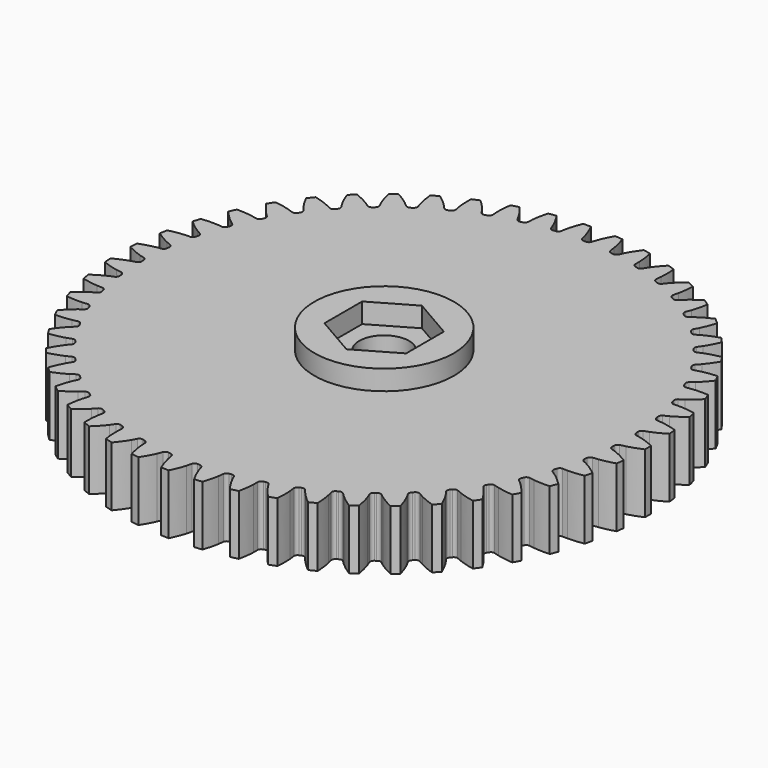
from build123d import *

# Parameters (mm, degrees)
PAD_DEPTH       = 6
SKETCH_R        = 7
PAD001_DEPTH    = 8
SKETCH001_R     = 2.5
POCKET_DEPTH    = 8.001
POCKET001_DEPTH = 2


with BuildPart() as part:
    # InvoluteGear → Pad (new body)
    with BuildSketch(Plane.XY):
        with BuildLine():
            add(Edge.make_bspline(
                [(24.477809, -1.042539), (24.623171, -1.01798), (24.796938, -0.982154), (24.997721, -0.930036)],
                knots=[0, 0, 0, 0, 1, 1, 1, 1], degree=3))
            add(Edge.make_bspline(
                [(24.997721, -0.930036), (25.39788, -0.826117), (25.903105, -0.658218), (26.497465, -0.388172)],
                knots=[0, 0, 0, 0, 1, 1, 1, 1], degree=3))
            ThreePointArc((26.497465, -0.388172), (26.500308, 0), (26.497465, 0.388172))
            add(Edge.make_bspline(
                [(26.497465, 0.388172), (25.903105, 0.658218), (25.39788, 0.826117), (24.997721, 0.930036)],
                knots=[0, 0, 0, 0, 1, 1, 1, 1], degree=3))
            add(Edge.make_bspline(
                [(24.997721, 0.930036), (24.796938, 0.982154), (24.623171, 1.01798), (24.477829, 1.042534)],
                knots=[0, 0, 0, 0, 1, 1, 1, 1], degree=3))
            ThreePointArc((24.477829, 1.042534), (24.284389, 1.177202), (24.209514, 1.400693))
            ThreePointArc((24.209514, 1.400693), (24.204006, 1.492852), (24.198147, 1.584989))
            ThreePointArc((24.198147, 1.584989), (24.244984, 1.815979), (24.420395, 1.973399))
            add(Edge.make_bspline(
                [(24.420395, 1.973399), (24.561638, 2.015635), (24.729685, 2.072543), (24.922541, 2.148941)],
                knots=[0, 0, 0, 0, 1, 1, 1, 1], degree=3))
            add(Edge.make_bspline(
                [(24.922541, 2.148941), (25.306897, 2.301247), (25.78766, 2.529959), (26.344329, 2.870998)],
                knots=[0, 0, 0, 0, 1, 1, 1, 1], degree=3))
            ThreePointArc((26.344329, 2.870998), (26.299449, 3.256578), (26.248926, 3.641458))
            add(Edge.make_bspline(
                [(26.248926, 3.641458), (25.625886, 3.836417), (25.103857, 3.940957), (24.69396, 3.994914)],
                knots=[0, 0, 0, 0, 1, 1, 1, 1], degree=3))
            add(Edge.make_bspline(
                [(24.69396, 3.994914), (24.488294, 4.021963), (24.311442, 4.036164), (24.164184, 4.042671)],
                knots=[0, 0, 0, 0, 1, 1, 1, 1], degree=3))
            ThreePointArc((24.164184, 4.042671), (23.955661, 4.152547), (23.853889, 4.365143))
            ThreePointArc((23.853889, 4.365143), (23.837098, 4.455926), (23.819961, 4.546645))
            ThreePointArc((23.819961, 4.546645), (23.838057, 4.781639), (23.992793, 4.959422))
            add(Edge.make_bspline(
                [(23.992793, 4.959422), (24.127775, 5.018695), (24.287555, 5.095823), (24.469562, 5.195341)],
                knots=[0, 0, 0, 0, 1, 1, 1, 1], degree=3))
            add(Edge.make_bspline(
                [(24.469562, 5.195341), (24.832287, 5.393726), (25.2813, 5.679785), (25.791841, 6.086647)],
                knots=[0, 0, 0, 0, 1, 1, 1, 1], degree=3))
            ThreePointArc((25.791841, 6.086647), (25.699918, 6.463789), (25.60248, 6.839543))
            add(Edge.make_bspline(
                [(25.60248, 6.839543), (24.960204, 6.95646), (24.429285, 6.996057), (24.015865, 6.999233)],
                knots=[0, 0, 0, 0, 1, 1, 1, 1], degree=3))
            add(Edge.make_bspline(
                [(24.015865, 6.999233), (23.808433, 7.000804), (23.631176, 6.993163), (23.484235, 6.981525)],
                knots=[0, 0, 0, 0, 1, 1, 1, 1], degree=3))
            ThreePointArc((23.484235, 6.981525), (23.26379, 7.064943), (23.136664, 7.263421))
            ThreePointArc((23.136664, 7.263421), (23.108844, 7.351452), (23.080688, 7.439378))
            ThreePointArc((23.080688, 7.439378), (23.069769, 7.674815), (23.201485, 7.870266))
            add(Edge.make_bspline(
                [(23.201485, 7.870266), (23.32816, 7.945677), (23.477251, 8.041855), (23.645648, 8.162986)],
                knots=[0, 0, 0, 0, 1, 1, 1, 1], degree=3))
            add(Edge.make_bspline(
                [(23.645648, 8.162986), (23.981245, 8.404442), (24.391702, 8.743511), (24.848374, 9.210029)],
                knots=[0, 0, 0, 0, 1, 1, 1, 1], degree=3))
            ThreePointArc((24.848374, 9.210029), (24.710801, 9.573015), (24.567926, 9.933948))
            add(Edge.make_bspline(
                [(24.567926, 9.933948), (23.91615, 9.971051), (23.38439, 9.945103), (22.973713, 9.897451)],
                knots=[0, 0, 0, 0, 1, 1, 1, 1], degree=3))
            add(Edge.make_bspline(
                [(22.973713, 9.897451), (22.767661, 9.873519), (22.592686, 9.844154), (22.448289, 9.814546)],
                knots=[0, 0, 0, 0, 1, 1, 1, 1], degree=3))
            ThreePointArc((22.448289, 9.814546), (22.219264, 9.870242), (22.068711, 10.051593))
            ThreePointArc((22.068711, 10.051593), (22.030283, 10.135538), (21.991536, 10.219337))
            ThreePointArc((21.991536, 10.219337), (21.951767, 10.451648), (22.058466, 10.661804))
            add(Edge.make_bspline(
                [(22.058466, 10.661804), (22.174914, 10.752211), (22.311055, 10.865981), (22.463291, 11.006888)],
                knots=[0, 0, 0, 0, 1, 1, 1, 1], degree=3))
            add(Edge.make_bspline(
                [(22.463291, 11.006888), (22.766672, 11.287755), (23.13235, 11.674694), (23.528231, 12.193796)],
                knots=[0, 0, 0, 0, 1, 1, 1, 1], degree=3))
            ThreePointArc((23.528231, 12.193796), (23.347095, 12.537125), (23.160948, 12.877764))
            add(Edge.make_bspline(
                [(23.160948, 12.877764), (22.509553, 12.83449), (21.985011, 12.743392), (21.583303, 12.645633)],
                knots=[0, 0, 0, 0, 1, 1, 1, 1], degree=3))
            add(Edge.make_bspline(
                [(21.583303, 12.645633), (21.381754, 12.596561), (21.211714, 12.545916), (21.07205, 12.498788)],
                knots=[0, 0, 0, 0, 1, 1, 1, 1], degree=3))
            ThreePointArc((21.07205, 12.498788), (20.837916, 12.525918), (20.666218, 12.687393))
            ThreePointArc((20.666218, 12.687393), (20.617766, 12.76598), (20.569014, 12.844382))
            ThreePointArc((20.569014, 12.844382), (20.500999, 13.070045), (20.581064, 13.29172))
            add(Edge.make_bspline(
                [(20.581064, 13.29172), (20.685518, 13.395752), (20.806647, 13.52539), (20.940413, 13.683937)],
                knots=[0, 0, 0, 0, 1, 1, 1, 1], degree=3))
            add(Edge.make_bspline(
                [(20.940413, 13.683937), (21.20698, 13.999957), (21.522335, 14.428901), (21.851425, 14.992717)],
                knots=[0, 0, 0, 0, 1, 1, 1, 1], degree=3))
            ThreePointArc((21.851425, 14.992717), (21.62947, 15.311185), (21.402873, 15.626367))
            add(Edge.make_bspline(
                [(21.402873, 15.626367), (20.761733, 15.503372), (20.252363, 15.348504), (19.865712, 15.202121)],
                knots=[0, 0, 0, 0, 1, 1, 1, 1], degree=3))
            add(Edge.make_bspline(
                [(19.865712, 15.202121), (19.671721, 15.128653), (19.509194, 15.057496), (19.37638, 14.993562)],
                knots=[0, 0, 0, 0, 1, 1, 1, 1], degree=3))
            ThreePointArc((19.37638, 14.993562), (19.140687, 14.991713), (18.950446, 15.130865))
            ThreePointArc((18.950446, 15.130865), (18.892704, 15.202902), (18.834688, 15.274719))
            ThreePointArc((18.834688, 15.274719), (18.739456, 15.490314), (18.791673, 15.720147))
            add(Edge.make_bspline(
                [(18.791673, 15.720147), (18.882552, 15.836227), (18.986831, 15.979768), (19.1001, 16.153551)],
                knots=[0, 0, 0, 0, 1, 1, 1, 1], degree=3))
            add(Edge.make_bspline(
                [(19.1001, 16.153551), (19.325811, 16.499933), (19.586064, 16.96438), (19.843373, 17.564364)],
                knots=[0, 0, 0, 0, 1, 1, 1, 1], degree=3))
            ThreePointArc((19.843373, 17.564364), (19.583964, 17.853142), (19.320353, 18.138089))
            add(Edge.make_bspline(
                [(19.320353, 18.138089), (18.699187, 17.937238), (18.212709, 17.720948), (17.846978, 17.52816)],
                knots=[0, 0, 0, 0, 1, 1, 1, 1], degree=3))
            add(Edge.make_bspline(
                [(17.846978, 17.52816), (17.663485, 17.43141), (17.510934, 17.340819), (17.386983, 17.261049)],
                knots=[0, 0, 0, 0, 1, 1, 1, 1], degree=3))
            ThreePointArc((17.386983, 17.261049), (17.153304, 17.23025), (16.947406, 17.344969))
            ThreePointArc((16.947406, 17.344969), (16.881248, 17.409364), (16.814846, 17.473507))
            ThreePointArc((16.814846, 17.473507), (16.693843, 17.675765), (16.717419, 17.910273))
            add(Edge.make_bspline(
                [(16.717419, 17.910273), (16.793345, 18.036641), (16.879194, 18.191909), (16.970248, 18.378294)],
                knots=[0, 0, 0, 0, 1, 1, 1, 1], degree=3))
            add(Edge.make_bspline(
                [(16.970248, 18.378294), (17.151682, 18.749788), (17.352888, 19.242697), (17.534515, 19.869753)],
                knots=[0, 0, 0, 0, 1, 1, 1, 1], degree=3))
            ThreePointArc((17.534515, 19.869753), (17.241585, 20.124464), (16.944956, 20.374857))
            add(Edge.make_bspline(
                [(16.944956, 20.374857), (16.35318, 20.099194), (15.896968, 19.824761), (15.557701, 19.58849)],
                knots=[0, 0, 0, 0, 1, 1, 1, 1], degree=3))
            add(Edge.make_bspline(
                [(15.557701, 19.58849), (15.387489, 19.469924), (15.247226, 19.361274), (15.134018, 19.266875)],
                knots=[0, 0, 0, 0, 1, 1, 1, 1], degree=3))
            ThreePointArc((15.134018, 19.266875), (14.905895, 19.207594), (14.687459, 19.29614))
            ThreePointArc((14.687459, 19.29614), (14.61389, 19.351918), (14.540109, 19.407415))
            ThreePointArc((14.540109, 19.407415), (14.395167, 19.593269), (14.389747, 19.828898))
            add(Edge.make_bspline(
                [(14.389747, 19.828898), (14.449568, 19.963637), (14.515686, 20.128279), (14.583145, 20.324441)],
                knots=[0, 0, 0, 0, 1, 1, 1, 1], degree=3))
            add(Edge.make_bspline(
                [(14.583145, 20.324441), (14.717552, 20.715415), (14.85666, 21.229314), (14.959853, 21.873937)],
                knots=[0, 0, 0, 0, 1, 1, 1, 1], degree=3))
            ThreePointArc((14.959853, 21.873937), (14.637842, 22.09072), (14.31269, 22.302763))
            add(Edge.make_bspline(
                [(14.31269, 22.302763), (13.759276, 21.956467), (13.340246, 21.628051), (13.032585, 21.351879)],
                knots=[0, 0, 0, 0, 1, 1, 1, 1], degree=3))
            add(Edge.make_bspline(
                [(13.032585, 21.351879), (12.878234, 21.213294), (12.752386, 21.088231), (12.651637, 20.980636)],
                knots=[0, 0, 0, 0, 1, 1, 1, 1], degree=3))
            ThreePointArc((12.651637, 20.980636), (12.432527, 20.89377), (12.204866, 20.954802))
            ThreePointArc((12.204866, 20.954802), (12.125, 21.001116), (12.044958, 21.047125))
            ThreePointArc((12.044958, 21.047125), (11.878276, 21.21376), (11.843941, 21.446936))
            add(Edge.make_bspline(
                [(11.843941, 21.446936), (11.88675, 21.588006), (11.932135, 21.759525), (11.974977, 21.962489)],
                knots=[0, 0, 0, 0, 1, 1, 1, 1], degree=3))
            add(Edge.make_bspline(
                [(11.974977, 21.962489), (12.060318, 22.367018), (12.13522, 22.894116), (12.158414, 23.546535)],
                knots=[0, 0, 0, 0, 1, 1, 1, 1], degree=3))
            ThreePointArc((12.158414, 23.546535), (11.812204, 23.722103), (11.463459, 23.892581))
            add(Edge.make_bspline(
                [(11.463459, 23.892581), (10.956795, 23.480902), (10.5813, 23.103482), (10.309909, 22.791595)],
                knots=[0, 0, 0, 0, 1, 1, 1, 1], degree=3))
            add(Edge.make_bspline(
                [(10.309909, 22.791595), (10.173758, 22.635092), (10.064233, 22.495512), (9.977469, 22.376351)],
                knots=[0, 0, 0, 0, 1, 1, 1, 1], degree=3))
            ThreePointArc((9.977469, 22.376351), (9.770695, 22.263218), (9.53726, 22.295811))
            ThreePointArc((9.53726, 22.295811), (9.452307, 22.331959), (9.367218, 22.367783))
            ThreePointArc((9.367218, 22.367783), (9.181322, 22.512671), (9.118592, 22.739861))
            add(Edge.make_bspline(
                [(9.118592, 22.739861), (9.143742, 22.885122), (9.167705, 23.060918), (9.18528, 23.267609)],
                knots=[0, 0, 0, 0, 1, 1, 1, 1], degree=3))
            add(Edge.make_bspline(
                [(9.18528, 23.267609), (9.220263, 23.679559), (9.229822, 24.211867), (9.172666, 24.862191)],
                knots=[0, 0, 0, 0, 1, 1, 1, 1], degree=3))
            ThreePointArc((9.172666, 24.862191), (8.807505, 24.993883), (8.440453, 25.120212))
            add(Edge.make_bspline(
                [(8.440453, 25.120212), (7.98822, 24.64939), (7.661952, 24.228687), (7.430945, 23.885813)],
                knots=[0, 0, 0, 0, 1, 1, 1, 1], degree=3))
            add(Edge.make_bspline(
                [(7.430945, 23.885813), (7.315058, 23.713766), (7.223516, 23.561783), (7.152053, 23.432864)],
                knots=[0, 0, 0, 0, 1, 1, 1, 1], degree=3))
            ThreePointArc((7.152053, 23.432864), (6.96075, 23.295178), (6.725078, 23.298837))
            ThreePointArc((6.725078, 23.298837), (6.636328, 23.324272), (6.547481, 23.349368))
            ThreePointArc((6.547481, 23.349368), (6.345189, 23.470314), (6.255016, 23.688073))
            add(Edge.make_bspline(
                [(6.255016, 23.688073), (6.262123, 23.835323), (6.264301, 24.012732), (6.256343, 24.220016)],
                knots=[0, 0, 0, 0, 1, 1, 1, 1], degree=3))
            add(Edge.make_bspline(
                [(6.256343, 24.220016), (6.240437, 24.633142), (6.18451, 25.16259), (6.04787, 25.800961)],
                knots=[0, 0, 0, 0, 1, 1, 1, 1], degree=3))
            ThreePointArc((6.04787, 25.800961), (5.669293, 25.886781), (5.289499, 25.967047))
            add(Edge.make_bspline(
                [(5.289499, 25.967047), (4.898552, 25.444219), (4.626456, 24.98661), (4.439336, 24.617947)],
                knots=[0, 0, 0, 0, 1, 1, 1, 1], degree=3))
            add(Edge.make_bspline(
                [(4.439336, 24.617947), (4.345469, 24.432962), (4.273299, 24.270883), (4.21822, 24.134159)],
                knots=[0, 0, 0, 0, 1, 1, 1, 1], degree=3))
            ThreePointArc((4.21822, 24.134159), (4.045286, 23.974007), (3.810951, 23.948677))
            ThreePointArc((3.810951, 23.948677), (3.719748, 23.963013), (3.62849, 23.977001))
            ThreePointArc((3.62849, 23.977001), (3.412868, 24.07217), (3.296619, 24.277197))
            add(Edge.make_bspline(
                [(3.296619, 24.277197), (3.285577, 24.424205), (3.265937, 24.600537), (3.232567, 24.805272)],
                knots=[0, 0, 0, 0, 1, 1, 1, 1], degree=3))
            add(Edge.make_bspline(
                [(3.232567, 24.805272), (3.166013, 25.213313), (3.045447, 25.731874), (2.831394, 26.348615)],
                knots=[0, 0, 0, 0, 1, 1, 1, 1], degree=3))
            ThreePointArc((2.831394, 26.348615), (2.44514, 26.387262), (2.058361, 26.420247))
            add(Edge.make_bspline(
                [(2.058361, 26.420247), (1.734627, 25.85334), (1.520828, 25.365761), (1.38043, 24.976898)],
                knots=[0, 0, 0, 0, 1, 1, 1, 1], degree=3))
            add(Edge.make_bspline(
                [(1.38043, 24.976898), (1.310008, 24.78178), (1.258302, 24.61206), (1.220442, 24.469604)],
                knots=[0, 0, 0, 0, 1, 1, 1, 1], degree=3))
            ThreePointArc((1.220442, 24.469604), (1.0685, 24.289415), (0.839054, 24.23548))
            ThreePointArc((0.839054, 24.23548), (0.74678, 24.238499), (0.654496, 24.241166))
            ThreePointArc((0.654496, 24.241166), (0.428813, 24.309117), (0.288249, 24.498304))
            add(Edge.make_bspline(
                [(0.288249, 24.498304), (0.259225, 24.642841), (0.218065, 24.815423), (0.159788, 25.014505)],
                knots=[0, 0, 0, 0, 1, 1, 1, 1], degree=3))
            add(Edge.make_bspline(
                [(0.159788, 25.014505), (0.043596, 25.411274), (-0.139782, 25.91109), (-0.428003, 26.496851)],
                knots=[0, 0, 0, 0, 1, 1, 1, 1], degree=3))
            ThreePointArc((-0.428003, 26.496851), (-0.816079, 26.487739), (-1.203979, 26.472944))
            add(Edge.make_bspline(
                [(-1.203979, 26.472944), (-1.455593, 25.87055), (-1.607854, 25.360394), (-1.699401, 24.957224)],
                knots=[0, 0, 0, 0, 1, 1, 1, 1], degree=3))
            add(Edge.make_bspline(
                [(-1.699401, 24.957224), (-1.745312, 24.754932), (-1.775769, 24.580144), (-1.795836, 24.434115)],
                knots=[0, 0, 0, 0, 1, 1, 1, 1], degree=3))
            ThreePointArc((-1.795836, 24.434115), (-1.924483, 24.236619), (-2.145562, 24.154897))
            ThreePointArc((-2.145562, 24.154897), (-2.237508, 24.146554), (-2.329421, 24.13786))
            ThreePointArc((-2.329421, 24.13786), (-2.561743, 24.177562), (-2.724491, 24.348042))
            add(Edge.make_bspline(
                [(-2.724491, 24.348042), (-2.771056, 24.487917), (-2.833112, 24.654132), (-2.915413, 24.844544)],
                knots=[0, 0, 0, 0, 1, 1, 1, 1], degree=3))
            add(Edge.make_bspline(
                [(-2.915413, 24.844544), (-3.079483, 25.224027), (-3.322892, 25.697519), (-3.680912, 26.243422)],
                knots=[0, 0, 0, 0, 1, 1, 1, 1], degree=3))
            ThreePointArc((-3.680912, 26.243422), (-4.064926, 26.186689), (-4.448068, 26.124338))
            add(Edge.make_bspline(
                [(-4.448068, 26.124338), (-4.623748, 25.495589), (-4.712163, 24.970588), (-4.753471, 24.559225)],
                knots=[0, 0, 0, 0, 1, 1, 1, 1], degree=3))
            add(Edge.make_bspline(
                [(-4.753471, 24.559225), (-4.774174, 24.352823), (-4.782922, 24.175618), (-4.784891, 24.02823)],
                knots=[0, 0, 0, 0, 1, 1, 1, 1], degree=3))
            ThreePointArc((-4.784891, 24.02823), (-4.888293, 23.816422), (-5.097654, 23.708151))
            ThreePointArc((-5.097654, 23.708151), (-5.187877, 23.688572), (-5.278025, 23.668649))
            ThreePointArc((-5.278025, 23.668649), (-5.513466, 23.679501), (-5.69593, 23.828688))
            add(Edge.make_bspline(
                [(-5.69593, 23.828688), (-5.759331, 23.961781), (-5.841343, 24.11911), (-5.946419, 24.297965)],
                knots=[0, 0, 0, 0, 1, 1, 1, 1], degree=3))
            add(Edge.make_bspline(
                [(-5.946419, 24.297965), (-6.15588, 24.65441), (-6.45563, 25.094401), (-6.878022, 25.59217)],
                knots=[0, 0, 0, 0, 1, 1, 1, 1], degree=3))
            ThreePointArc((-6.878022, 25.59217), (-7.252154, 25.488676), (-7.624729, 25.379713))
            add(Edge.make_bspline(
                [(-7.624729, 25.379713), (-7.721812, 24.734141), (-7.74504, 24.202255), (-7.735483, 23.788933)],
                knots=[0, 0, 0, 0, 1, 1, 1, 1], degree=3))
            add(Edge.make_bspline(
                [(-7.735483, 23.788933), (-7.730665, 23.581551), (-7.71757, 23.404614), (-7.701412, 23.258101)],
                knots=[0, 0, 0, 0, 1, 1, 1, 1], degree=3))
            ThreePointArc((-7.701412, 23.258101), (-7.778002, 23.035191), (-7.972471, 22.902013))
            ThreePointArc((-7.972471, 22.902013), (-8.059604, 22.871495), (-8.14662, 22.840645))
            ThreePointArc((-8.14662, 22.840645), (-8.38161, 22.822482), (-8.581024, 22.948116))
            add(Edge.make_bspline(
                [(-8.581024, 22.948116), (-8.660301, 23.072408), (-8.761025, 23.218467), (-8.887283, 23.383054)],
                knots=[0, 0, 0, 0, 1, 1, 1, 1], degree=3))
            add(Edge.make_bspline(
                [(-8.887283, 23.383054), (-9.138959, 23.711056), (-9.490508, 24.110876), (-9.970868, 24.552966)],
                knots=[0, 0, 0, 0, 1, 1, 1, 1], degree=3))
            ThreePointArc((-9.970868, 24.552966), (-10.329446, 24.40428), (-10.685807, 24.250358))
            add(Edge.make_bspline(
                [(-10.685807, 24.250358), (-10.702821, 23.597748), (-10.66051, 23.067039), (-10.600233, 22.658024)],
                knots=[0, 0, 0, 0, 1, 1, 1, 1], degree=3))
            add(Edge.make_bspline(
                [(-10.600233, 22.658024), (-10.569967, 22.452807), (-10.535228, 22.27882), (-10.501187, 22.135403)],
                knots=[0, 0, 0, 0, 1, 1, 1, 1], degree=3))
            ThreePointArc((-10.501187, 22.135403), (-10.549804, 21.904771), (-10.726433, 21.748704))
            ThreePointArc((-10.726433, 21.748704), (-10.809155, 21.70771), (-10.891721, 21.666401))
            ThreePointArc((-10.891721, 21.666401), (-11.122697, 21.619497), (-11.336039, 21.719674))
            add(Edge.make_bspline(
                [(-11.336039, 21.719674), (-11.429989, 21.833282), (-11.547898, 21.965855), (-11.693426, 22.113679)],
                knots=[0, 0, 0, 0, 1, 1, 1, 1], degree=3))
            add(Edge.make_bspline(
                [(-11.693426, 22.113679), (-11.983502, 22.408267), (-12.381519, 22.761856), (-12.912566, 23.141564)],
                knots=[0, 0, 0, 0, 1, 1, 1, 1], degree=3))
            ThreePointArc((-12.912566, 23.141564), (-13.250154, 22.94994), (-13.584899, 22.753392))
            add(Edge.make_bspline(
                [(-13.584899, 22.753392), (-13.521586, 22.103638), (-13.414378, 21.582151), (-13.304295, 21.183643)],
                knots=[0, 0, 0, 0, 1, 1, 1, 1], degree=3))
            add(Edge.make_bspline(
                [(-13.304295, 21.183643), (-13.24904, 20.983701), (-13.193182, 20.815301), (-13.141775, 20.677155)],
                knots=[0, 0, 0, 0, 1, 1, 1, 1], degree=3))
            ThreePointArc((-13.141775, 20.677155), (-13.161682, 20.442297), (-13.317793, 20.265707))
            ThreePointArc((-13.317793, 20.265707), (-13.394851, 20.214858), (-13.471714, 20.163715))
            ThreePointArc((-13.471714, 20.163715), (-13.695176, 20.088783), (-13.919211, 20.161983))
            add(Edge.make_bspline(
                [(-13.919211, 20.161983), (-14.02641, 20.263185), (-14.159717, 20.380264), (-14.322308, 20.509084)],
                knots=[0, 0, 0, 0, 1, 1, 1, 1], degree=3))
            add(Edge.make_bspline(
                [(-14.322308, 20.509084), (-14.646387, 20.765792), (-15.084839, 21.067789), (-15.658522, 21.379359)],
                knots=[0, 0, 0, 0, 1, 1, 1, 1], degree=3))
            ThreePointArc((-15.658522, 21.379359), (-15.970004, 21.147702), (-16.278058, 20.911508))
            add(Edge.make_bspline(
                [(-16.278058, 20.911508), (-16.135377, 20.274459), (-15.964897, 19.770099), (-15.806677, 19.38814)],
                knots=[0, 0, 0, 0, 1, 1, 1, 1], degree=3))
            add(Edge.make_bspline(
                [(-15.806677, 19.38814), (-15.72727, 19.196503), (-15.651141, 19.036244), (-15.583148, 18.905462)],
                knots=[0, 0, 0, 0, 1, 1, 1, 1], degree=3))
            ThreePointArc((-15.583148, 18.905462), (-15.574042, 18.669938), (-15.707269, 18.475503))
            ThreePointArc((-15.707269, 18.475503), (-15.777494, 18.415569), (-15.84749, 18.355369))
            ThreePointArc((-15.84749, 18.355369), (-16.06005, 18.253544), (-16.291382, 18.298657))
            add(Edge.make_bspline(
                [(-16.291382, 18.298657), (-16.410205, 18.385919), (-16.55689, 18.485728), (-16.734078, 18.593591)],
                knots=[0, 0, 0, 0, 1, 1, 1, 1], degree=3))
            add(Edge.make_bspline(
                [(-16.734078, 18.593591), (-17.087247, 18.808529), (-17.559488, 19.054356), (-18.167112, 19.293066)],
                knots=[0, 0, 0, 0, 1, 1, 1, 1], degree=3))
            ThreePointArc((-18.167112, 19.293066), (-18.447764, 19.024887), (-18.724458, 18.752626))
            add(Edge.make_bspline(
                [(-18.724458, 18.752626), (-18.504573, 18.13794), (-18.273405, 17.658353), (-18.069446, 17.298732)],
                knots=[0, 0, 0, 0, 1, 1, 1, 1], degree=3))
            add(Edge.make_bspline(
                [(-18.069446, 17.298732), (-17.96709, 17.118306), (-17.871845, 16.968617), (-17.788295, 16.847182)],
                knots=[0, 0, 0, 0, 1, 1, 1, 1], degree=3))
            ThreePointArc((-17.788295, 16.847182), (-17.750315, 16.614562), (-17.858639, 16.405228))
            ThreePointArc((-17.858639, 16.405228), (-17.920966, 16.337119), (-17.983034, 16.268773))
            ThreePointArc((-17.983034, 16.268773), (-18.181469, 16.141599), (-18.416593, 16.157943))
            add(Edge.make_bspline(
                [(-18.416593, 16.157943), (-18.545238, 16.229941), (-18.703077, 16.310968), (-18.892177, 16.396239)],
                knots=[0, 0, 0, 0, 1, 1, 1, 1], degree=3))
            add(Edge.make_bspline(
                [(-18.892177, 16.396239), (-19.269083, 16.566147), (-19.767954, 16.752078), (-20.400306, 16.914309)],
                knots=[0, 0, 0, 0, 1, 1, 1, 1], degree=3))
            ThreePointArc((-20.400306, 16.914309), (-20.645875, 16.613674), (-20.887014, 16.309474))
            add(Edge.make_bspline(
                [(-20.887014, 16.309474), (-20.593258, 15.726469), (-20.304907, 15.278924), (-20.0583, 14.947094)],
                knots=[0, 0, 0, 0, 1, 1, 1, 1], degree=3))
            add(Edge.make_bspline(
                [(-20.0583, 14.947094), (-19.934548, 14.780613), (-19.82163, 14.643763), (-19.723791, 14.533516)],
                knots=[0, 0, 0, 0, 1, 1, 1, 1], degree=3))
            ThreePointArc((-19.723791, 14.533516), (-19.657512, 14.307326), (-19.73929, 14.086268))
            ThreePointArc((-19.73929, 14.086268), (-19.792775, 14.011015), (-19.845973, 13.93556))
            ThreePointArc((-19.845973, 13.93556), (-20.027277, 13.784964), (-20.262626, 13.77229))
            add(Edge.make_bspline(
                [(-20.262626, 13.77229), (-20.399144, 13.827933), (-20.565744, 13.88895), (-20.76389, 13.950337)],
                knots=[0, 0, 0, 0, 1, 1, 1, 1], degree=3))
            add(Edge.make_bspline(
                [(-20.76389, 13.950337), (-21.158818, 14.072639), (-21.676757, 14.195856), (-22.324253, 14.279148)],
                knots=[0, 0, 0, 0, 1, 1, 1, 1], degree=3))
            ThreePointArc((-22.324253, 14.279148), (-22.531016, 13.950614), (-22.732945, 13.619087))
            add(Edge.make_bspline(
                [(-22.732945, 13.619087), (-22.369771, 13.0766), (-22.028607, 12.667882), (-21.743091, 12.368872)],
                knots=[0, 0, 0, 0, 1, 1, 1, 1], degree=3))
            add(Edge.make_bspline(
                [(-21.743091, 12.368872), (-21.599819, 12.218861), (-21.470939, 12.096925), (-21.360293, 11.999536)],
                knots=[0, 0, 0, 0, 1, 1, 1, 1], degree=3))
            ThreePointArc((-21.360293, 11.999536), (-21.266721, 11.783206), (-21.320713, 11.553773))
            ThreePointArc((-21.320713, 11.553773), (-21.364546, 11.472519), (-21.408068, 11.391098))
            ThreePointArc((-21.408068, 11.391098), (-21.569491, 11.219363), (-21.801499, 11.177864))
            add(Edge.make_bspline(
                [(-21.801499, 11.177864), (-21.94382, 11.216309), (-22.116655, 11.25639), (-22.320843, 11.292961)],
                knots=[0, 0, 0, 0, 1, 1, 1, 1], degree=3))
            add(Edge.make_bspline(
                [(-22.320843, 11.292961), (-22.727808, 11.365805), (-23.256962, 11.424439), (-23.909786, 11.42753)],
                knots=[0, 0, 0, 0, 1, 1, 1, 1], degree=3))
            ThreePointArc((-23.909786, 11.42753), (-24.07461, 11.076078), (-24.234267, 10.722249))
            add(Edge.make_bspline(
                [(-24.234267, 10.722249), (-23.80718, 10.228503), (-23.418376, 9.864808), (-23.098279, 9.603151)],
                knots=[0, 0, 0, 0, 1, 1, 1, 1], degree=3))
            add(Edge.make_bspline(
                [(-23.098279, 9.603151), (-22.937658, 9.471884), (-22.794771, 9.366709), (-22.672996, 9.283656)],
                knots=[0, 0, 0, 0, 1, 1, 1, 1], degree=3))
            ThreePointArc((-22.672996, 9.283656), (-22.553548, 9.080464), (-22.578937, 8.846136))
            ThreePointArc((-22.578937, 8.846136), (-22.612452, 8.76011), (-22.645639, 8.673958))
            ThreePointArc((-22.645639, 8.673958), (-22.784733, 8.483688), (-23.009883, 8.413992))
            add(Edge.make_bspline(
                [(-23.009883, 8.413992), (-23.15585, 8.434656), (-23.332301, 8.453194), (-23.539435, 8.464396)],
                knots=[0, 0, 0, 0, 1, 1, 1, 1], degree=3))
            add(Edge.make_bspline(
                [(-23.539435, 8.464396), (-23.952267, 8.486676), (-24.484616, 8.479839), (-25.132872, 8.402683)],
                knots=[0, 0, 0, 0, 1, 1, 1, 1], degree=3))
            ThreePointArc((-25.132872, 8.402683), (-25.253257, 8.033639), (-25.368223, 7.662872))
            add(Edge.make_bspline(
                [(-25.368223, 7.662872), (-24.883697, 7.225352), (-24.453146, 6.912194), (-24.103321, 6.691856)],
                knots=[0, 0, 0, 0, 1, 1, 1, 1], degree=3))
            add(Edge.make_bspline(
                [(-24.103321, 6.691856), (-23.927786, 6.581322), (-23.773057, 6.494504), (-23.641998, 6.427045)],
                knots=[0, 0, 0, 0, 1, 1, 1, 1], degree=3))
            ThreePointArc((-23.641998, 6.427045), (-23.498486, 6.240072), (-23.494886, 6.004399))
            ThreePointArc((-23.494886, 6.004399), (-23.517576, 5.914908), (-23.539924, 5.82533))
            ThreePointArc((-23.539924, 5.82533), (-23.654583, 5.619409), (-23.869461, 5.522573))
            add(Edge.make_bspline(
                [(-23.869461, 5.522573), (-24.016861, 5.525143), (-24.194252, 5.521857), (-24.401194, 5.507519)],
                knots=[0, 0, 0, 0, 1, 1, 1, 1], degree=3))
            add(Edge.make_bspline(
                [(-24.401194, 5.507519), (-24.813634, 5.478899), (-25.341108, 5.406693), (-25.974969, 5.250459)],
                knots=[0, 0, 0, 0, 1, 1, 1, 1], degree=3))
            ThreePointArc((-25.974969, 5.250459), (-26.04909, 4.869419), (-26.117622, 4.487334))
            add(Edge.make_bspline(
                [(-26.117622, 4.487334), (-25.583003, 4.112673), (-25.117231, 3.854798), (-24.742981, 3.679119)],
                knots=[0, 0, 0, 0, 1, 1, 1, 1], degree=3))
            add(Edge.make_bspline(
                [(-24.742981, 3.679119), (-24.555193, 3.590994), (-24.390968, 3.523849), (-24.252613, 3.473006)],
                knots=[0, 0, 0, 0, 1, 1, 1, 1], degree=3))
            ThreePointArc((-24.252613, 3.473006), (-24.087212, 3.305087), (-24.054678, 3.071643))
            ThreePointArc((-24.054678, 3.071643), (-24.066197, 2.980041), (-24.077368, 2.888396))
            ThreePointArc((-24.077368, 2.888396), (-24.165853, 2.669946), (-24.367203, 2.547438))
            add(Edge.make_bspline(
                [(-24.367203, 2.547438), (-24.513801, 2.531874), (-24.689444, 2.506814), (-24.893055, 2.467154)],
                knots=[0, 0, 0, 0, 1, 1, 1, 1], degree=3))
            add(Edge.make_bspline(
                [(-24.893055, 2.467154), (-25.298852, 2.388066), (-25.813455, 2.251588), (-26.423312, 2.018644)],
                knots=[0, 0, 0, 0, 1, 1, 1, 1], degree=3))
            ThreePointArc((-26.423312, 2.018644), (-26.450046, 1.631383), (-26.471104, 1.243772))
            add(Edge.make_bspline(
                [(-26.471104, 1.243772), (-25.894496, 0.937649), (-25.400565, 0.738967), (-25.007562, 0.610611)],
                knots=[0, 0, 0, 0, 1, 1, 1, 1], degree=3))
            add(Edge.make_bspline(
                [(-25.007562, 0.610611), (-24.810368, 0.54623), (-24.639137, 0.499775), (-24.495582, 0.466321)],
                knots=[0, 0, 0, 0, 1, 1, 1, 1], degree=3))
            ThreePointArc((-24.495582, 0.466321), (-24.310799, 0.32), (-24.249824, 0.092323))
            ThreePointArc((-24.249824, 0.092323), (-24.25, 0), (-24.249824, -0.092323))
            ThreePointArc((-24.249824, -0.092323), (-24.310793, -0.319991), (-24.495562, -0.466314))
            add(Edge.make_bspline(
                [(-24.495562, -0.466314), (-24.639137, -0.499775), (-24.810368, -0.54623), (-25.007562, -0.610611)],
                knots=[0, 0, 0, 0, 1, 1, 1, 1], degree=3))
            add(Edge.make_bspline(
                [(-25.007562, -0.610611), (-25.400565, -0.738967), (-25.894496, -0.937649), (-26.471104, -1.243772)],
                knots=[0, 0, 0, 0, 1, 1, 1, 1], degree=3))
            ThreePointArc((-26.471104, -1.243772), (-26.450046, -1.631383), (-26.423312, -2.018644))
            add(Edge.make_bspline(
                [(-26.423312, -2.018644), (-25.813455, -2.251588), (-25.298852, -2.388066), (-24.893055, -2.467154)],
                knots=[0, 0, 0, 0, 1, 1, 1, 1], degree=3))
            add(Edge.make_bspline(
                [(-24.893055, -2.467154), (-24.689444, -2.506814), (-24.513801, -2.531874), (-24.367223, -2.547434)],
                knots=[0, 0, 0, 0, 1, 1, 1, 1], degree=3))
            ThreePointArc((-24.367223, -2.547434), (-24.16586, -2.669938), (-24.077368, -2.888396))
            ThreePointArc((-24.077368, -2.888396), (-24.066197, -2.980041), (-24.054678, -3.071643))
            ThreePointArc((-24.054678, -3.071643), (-24.087206, -3.305078), (-24.252593, -3.472998))
            add(Edge.make_bspline(
                [(-24.252593, -3.472998), (-24.390968, -3.523849), (-24.555193, -3.590994), (-24.742981, -3.679119)],
                knots=[0, 0, 0, 0, 1, 1, 1, 1], degree=3))
            add(Edge.make_bspline(
                [(-24.742981, -3.679119), (-25.117231, -3.854798), (-25.583003, -4.112673), (-26.117622, -4.487334)],
                knots=[0, 0, 0, 0, 1, 1, 1, 1], degree=3))
            ThreePointArc((-26.117622, -4.487334), (-26.04909, -4.869419), (-25.974969, -5.250459))
            add(Edge.make_bspline(
                [(-25.974969, -5.250459), (-25.341108, -5.406693), (-24.813634, -5.478899), (-24.401194, -5.507519)],
                knots=[0, 0, 0, 0, 1, 1, 1, 1], degree=3))
            add(Edge.make_bspline(
                [(-24.401194, -5.507519), (-24.194252, -5.521857), (-24.016861, -5.525143), (-23.869482, -5.522572)],
                knots=[0, 0, 0, 0, 1, 1, 1, 1], degree=3))
            ThreePointArc((-23.869482, -5.522572), (-23.654591, -5.619403), (-23.539924, -5.82533))
            ThreePointArc((-23.539924, -5.82533), (-23.517576, -5.914908), (-23.494886, -6.004399))
            ThreePointArc((-23.494886, -6.004399), (-23.498482, -6.240062), (-23.64198, -6.427034))
            add(Edge.make_bspline(
                [(-23.64198, -6.427034), (-23.773057, -6.494504), (-23.927786, -6.581322), (-24.103321, -6.691856)],
                knots=[0, 0, 0, 0, 1, 1, 1, 1], degree=3))
            add(Edge.make_bspline(
                [(-24.103321, -6.691856), (-24.453146, -6.912194), (-24.883697, -7.225352), (-25.368223, -7.662872)],
                knots=[0, 0, 0, 0, 1, 1, 1, 1], degree=3))
            ThreePointArc((-25.368223, -7.662872), (-25.253257, -8.033639), (-25.132872, -8.402683))
            add(Edge.make_bspline(
                [(-25.132872, -8.402683), (-24.484616, -8.479839), (-23.952267, -8.486676), (-23.539435, -8.464396)],
                knots=[0, 0, 0, 0, 1, 1, 1, 1], degree=3))
            add(Edge.make_bspline(
                [(-23.539435, -8.464396), (-23.332301, -8.453194), (-23.15585, -8.434656), (-23.009904, -8.413994)],
                knots=[0, 0, 0, 0, 1, 1, 1, 1], degree=3))
            ThreePointArc((-23.009904, -8.413994), (-22.784742, -8.483683), (-22.645639, -8.673958))
            ThreePointArc((-22.645639, -8.673958), (-22.612452, -8.76011), (-22.578937, -8.846136))
            ThreePointArc((-22.578937, -8.846136), (-22.553545, -9.080454), (-22.672979, -9.283643))
            add(Edge.make_bspline(
                [(-22.672979, -9.283643), (-22.794771, -9.366709), (-22.937658, -9.471884), (-23.098279, -9.603151)],
                knots=[0, 0, 0, 0, 1, 1, 1, 1], degree=3))
            add(Edge.make_bspline(
                [(-23.098279, -9.603151), (-23.418376, -9.864808), (-23.80718, -10.228503), (-24.234267, -10.722249)],
                knots=[0, 0, 0, 0, 1, 1, 1, 1], degree=3))
            ThreePointArc((-24.234267, -10.722249), (-24.07461, -11.076078), (-23.909786, -11.42753))
            add(Edge.make_bspline(
                [(-23.909786, -11.42753), (-23.256962, -11.424439), (-22.727808, -11.365805), (-22.320843, -11.292961)],
                knots=[0, 0, 0, 0, 1, 1, 1, 1], degree=3))
            add(Edge.make_bspline(
                [(-22.320843, -11.292961), (-22.116655, -11.25639), (-21.94382, -11.216309), (-21.80152, -11.177868)],
                knots=[0, 0, 0, 0, 1, 1, 1, 1], degree=3))
            ThreePointArc((-21.80152, -11.177868), (-21.5695, -11.219359), (-21.408068, -11.391098))
            ThreePointArc((-21.408068, -11.391098), (-21.364546, -11.472519), (-21.320713, -11.553773))
            ThreePointArc((-21.320713, -11.553773), (-21.266719, -11.783196), (-21.360278, -11.999521))
            add(Edge.make_bspline(
                [(-21.360278, -11.999521), (-21.470939, -12.096925), (-21.599819, -12.218861), (-21.743091, -12.368872)],
                knots=[0, 0, 0, 0, 1, 1, 1, 1], degree=3))
            add(Edge.make_bspline(
                [(-21.743091, -12.368872), (-22.028607, -12.667882), (-22.369771, -13.0766), (-22.732945, -13.619087)],
                knots=[0, 0, 0, 0, 1, 1, 1, 1], degree=3))
            ThreePointArc((-22.732945, -13.619087), (-22.531016, -13.950614), (-22.324253, -14.279148))
            add(Edge.make_bspline(
                [(-22.324253, -14.279148), (-21.676757, -14.195856), (-21.158818, -14.072639), (-20.76389, -13.950337)],
                knots=[0, 0, 0, 0, 1, 1, 1, 1], degree=3))
            add(Edge.make_bspline(
                [(-20.76389, -13.950337), (-20.565744, -13.88895), (-20.399144, -13.827933), (-20.262646, -13.772297)],
                knots=[0, 0, 0, 0, 1, 1, 1, 1], degree=3))
            ThreePointArc((-20.262646, -13.772297), (-20.027287, -13.784961), (-19.845973, -13.93556))
            ThreePointArc((-19.845973, -13.93556), (-19.792775, -14.011015), (-19.73929, -14.086268))
            ThreePointArc((-19.73929, -14.086268), (-19.657512, -14.307316), (-19.723778, -14.533499))
            add(Edge.make_bspline(
                [(-19.723778, -14.533499), (-19.82163, -14.643763), (-19.934548, -14.780613), (-20.0583, -14.947094)],
                knots=[0, 0, 0, 0, 1, 1, 1, 1], degree=3))
            add(Edge.make_bspline(
                [(-20.0583, -14.947094), (-20.304907, -15.278924), (-20.593258, -15.726469), (-20.887014, -16.309474)],
                knots=[0, 0, 0, 0, 1, 1, 1, 1], degree=3))
            ThreePointArc((-20.887014, -16.309474), (-20.645875, -16.613674), (-20.400306, -16.914309))
            add(Edge.make_bspline(
                [(-20.400306, -16.914309), (-19.767954, -16.752078), (-19.269083, -16.566147), (-18.892177, -16.396239)],
                knots=[0, 0, 0, 0, 1, 1, 1, 1], degree=3))
            add(Edge.make_bspline(
                [(-18.892177, -16.396239), (-18.703077, -16.310968), (-18.545238, -16.229941), (-18.416612, -16.157952)],
                knots=[0, 0, 0, 0, 1, 1, 1, 1], degree=3))
            ThreePointArc((-18.416612, -16.157952), (-18.18148, -16.141597), (-17.983034, -16.268773))
            ThreePointArc((-17.983034, -16.268773), (-17.920966, -16.337119), (-17.858639, -16.405228))
            ThreePointArc((-17.858639, -16.405228), (-17.750316, -16.614552), (-17.788285, -16.847164))
            add(Edge.make_bspline(
                [(-17.788285, -16.847164), (-17.871845, -16.968617), (-17.96709, -17.118306), (-18.069446, -17.298732)],
                knots=[0, 0, 0, 0, 1, 1, 1, 1], degree=3))
            add(Edge.make_bspline(
                [(-18.069446, -17.298732), (-18.273405, -17.658353), (-18.504573, -18.13794), (-18.724458, -18.752626)],
                knots=[0, 0, 0, 0, 1, 1, 1, 1], degree=3))
            ThreePointArc((-18.724458, -18.752626), (-18.447764, -19.024887), (-18.167112, -19.293066))
            add(Edge.make_bspline(
                [(-18.167112, -19.293066), (-17.559488, -19.054356), (-17.087247, -18.808529), (-16.734078, -18.593591)],
                knots=[0, 0, 0, 0, 1, 1, 1, 1], degree=3))
            add(Edge.make_bspline(
                [(-16.734078, -18.593591), (-16.55689, -18.485728), (-16.410205, -18.385919), (-16.2914, -18.298669)],
                knots=[0, 0, 0, 0, 1, 1, 1, 1], degree=3))
            ThreePointArc((-16.2914, -18.298669), (-16.06006, -18.253543), (-15.84749, -18.355369))
            ThreePointArc((-15.84749, -18.355369), (-15.777494, -18.415569), (-15.707269, -18.475503))
            ThreePointArc((-15.707269, -18.475503), (-15.574044, -18.669928), (-15.583139, -18.905443))
            add(Edge.make_bspline(
                [(-15.583139, -18.905443), (-15.651141, -19.036244), (-15.72727, -19.196503), (-15.806677, -19.38814)],
                knots=[0, 0, 0, 0, 1, 1, 1, 1], degree=3))
            add(Edge.make_bspline(
                [(-15.806677, -19.38814), (-15.964897, -19.770099), (-16.135377, -20.274459), (-16.278058, -20.911508)],
                knots=[0, 0, 0, 0, 1, 1, 1, 1], degree=3))
            ThreePointArc((-16.278058, -20.911508), (-15.970004, -21.147702), (-15.658522, -21.379359))
            add(Edge.make_bspline(
                [(-15.658522, -21.379359), (-15.084839, -21.067789), (-14.646387, -20.765792), (-14.322308, -20.509084)],
                knots=[0, 0, 0, 0, 1, 1, 1, 1], degree=3))
            add(Edge.make_bspline(
                [(-14.322308, -20.509084), (-14.159717, -20.380264), (-14.02641, -20.263185), (-13.919228, -20.161996)],
                knots=[0, 0, 0, 0, 1, 1, 1, 1], degree=3))
            ThreePointArc((-13.919228, -20.161996), (-13.695186, -20.088784), (-13.471714, -20.163715))
            ThreePointArc((-13.471714, -20.163715), (-13.394851, -20.214858), (-13.317793, -20.265707))
            ThreePointArc((-13.317793, -20.265707), (-13.161685, -20.442287), (-13.14177, -20.677135))
            add(Edge.make_bspline(
                [(-13.14177, -20.677135), (-13.193182, -20.815301), (-13.24904, -20.983701), (-13.304295, -21.183643)],
                knots=[0, 0, 0, 0, 1, 1, 1, 1], degree=3))
            add(Edge.make_bspline(
                [(-13.304295, -21.183643), (-13.414378, -21.582151), (-13.521586, -22.103638), (-13.584899, -22.753392)],
                knots=[0, 0, 0, 0, 1, 1, 1, 1], degree=3))
            ThreePointArc((-13.584899, -22.753392), (-13.250154, -22.94994), (-12.912566, -23.141564))
            add(Edge.make_bspline(
                [(-12.912566, -23.141564), (-12.381519, -22.761856), (-11.983502, -22.408267), (-11.693426, -22.113679)],
                knots=[0, 0, 0, 0, 1, 1, 1, 1], degree=3))
            add(Edge.make_bspline(
                [(-11.693426, -22.113679), (-11.547898, -21.965855), (-11.429989, -21.833282), (-11.336054, -21.719689)],
                knots=[0, 0, 0, 0, 1, 1, 1, 1], degree=3))
            ThreePointArc((-11.336054, -21.719689), (-11.122708, -21.619499), (-10.891721, -21.666401))
            ThreePointArc((-10.891721, -21.666401), (-10.809155, -21.70771), (-10.726433, -21.748704))
            ThreePointArc((-10.726433, -21.748704), (-10.549808, -21.904762), (-10.501184, -22.135382))
            add(Edge.make_bspline(
                [(-10.501184, -22.135382), (-10.535228, -22.27882), (-10.569967, -22.452807), (-10.600233, -22.658024)],
                knots=[0, 0, 0, 0, 1, 1, 1, 1], degree=3))
            add(Edge.make_bspline(
                [(-10.600233, -22.658024), (-10.66051, -23.067039), (-10.702821, -23.597748), (-10.685807, -24.250358)],
                knots=[0, 0, 0, 0, 1, 1, 1, 1], degree=3))
            ThreePointArc((-10.685807, -24.250358), (-10.329446, -24.40428), (-9.970868, -24.552966))
            add(Edge.make_bspline(
                [(-9.970868, -24.552966), (-9.490508, -24.110876), (-9.138959, -23.711056), (-8.887283, -23.383054)],
                knots=[0, 0, 0, 0, 1, 1, 1, 1], degree=3))
            add(Edge.make_bspline(
                [(-8.887283, -23.383054), (-8.761025, -23.218467), (-8.660301, -23.072408), (-8.581037, -22.948133)],
                knots=[0, 0, 0, 0, 1, 1, 1, 1], degree=3))
            ThreePointArc((-8.581037, -22.948133), (-8.38162, -22.822485), (-8.14662, -22.840645))
            ThreePointArc((-8.14662, -22.840645), (-8.059604, -22.871495), (-7.972471, -22.902013))
            ThreePointArc((-7.972471, -22.902013), (-7.778008, -23.035183), (-7.701411, -23.25808))
            add(Edge.make_bspline(
                [(-7.701411, -23.25808), (-7.71757, -23.404614), (-7.730665, -23.581551), (-7.735483, -23.788933)],
                knots=[0, 0, 0, 0, 1, 1, 1, 1], degree=3))
            add(Edge.make_bspline(
                [(-7.735483, -23.788933), (-7.74504, -24.202255), (-7.721812, -24.734141), (-7.624729, -25.379713)],
                knots=[0, 0, 0, 0, 1, 1, 1, 1], degree=3))
            ThreePointArc((-7.624729, -25.379713), (-7.252154, -25.488676), (-6.878022, -25.59217))
            add(Edge.make_bspline(
                [(-6.878022, -25.59217), (-6.45563, -25.094401), (-6.15588, -24.65441), (-5.946419, -24.297965)],
                knots=[0, 0, 0, 0, 1, 1, 1, 1], degree=3))
            add(Edge.make_bspline(
                [(-5.946419, -24.297965), (-5.841343, -24.11911), (-5.759331, -23.961781), (-5.69594, -23.828707)],
                knots=[0, 0, 0, 0, 1, 1, 1, 1], degree=3))
            ThreePointArc((-5.69594, -23.828707), (-5.513475, -23.679505), (-5.278025, -23.668649))
            ThreePointArc((-5.278025, -23.668649), (-5.187877, -23.688572), (-5.097654, -23.708151))
            ThreePointArc((-5.097654, -23.708151), (-4.8883, -23.816414), (-4.784893, -24.028208))
            add(Edge.make_bspline(
                [(-4.784893, -24.028208), (-4.782922, -24.175618), (-4.774174, -24.352823), (-4.753471, -24.559225)],
                knots=[0, 0, 0, 0, 1, 1, 1, 1], degree=3))
            add(Edge.make_bspline(
                [(-4.753471, -24.559225), (-4.712163, -24.970588), (-4.623748, -25.495589), (-4.448068, -26.124338)],
                knots=[0, 0, 0, 0, 1, 1, 1, 1], degree=3))
            ThreePointArc((-4.448068, -26.124338), (-4.064926, -26.186689), (-3.680912, -26.243422))
            add(Edge.make_bspline(
                [(-3.680912, -26.243422), (-3.322892, -25.697519), (-3.079483, -25.224027), (-2.915413, -24.844544)],
                knots=[0, 0, 0, 0, 1, 1, 1, 1], degree=3))
            add(Edge.make_bspline(
                [(-2.915413, -24.844544), (-2.833112, -24.654132), (-2.771056, -24.487917), (-2.724499, -24.348062)],
                knots=[0, 0, 0, 0, 1, 1, 1, 1], degree=3))
            ThreePointArc((-2.724499, -24.348062), (-2.561752, -24.177568), (-2.329421, -24.13786))
            ThreePointArc((-2.329421, -24.13786), (-2.237508, -24.146554), (-2.145562, -24.154897))
            ThreePointArc((-2.145562, -24.154897), (-1.924491, -24.236612), (-1.79584, -24.434094))
            add(Edge.make_bspline(
                [(-1.79584, -24.434094), (-1.775769, -24.580144), (-1.745312, -24.754932), (-1.699401, -24.957224)],
                knots=[0, 0, 0, 0, 1, 1, 1, 1], degree=3))
            add(Edge.make_bspline(
                [(-1.699401, -24.957224), (-1.607854, -25.360394), (-1.455593, -25.87055), (-1.203979, -26.472944)],
                knots=[0, 0, 0, 0, 1, 1, 1, 1], degree=3))
            ThreePointArc((-1.203979, -26.472944), (-0.816079, -26.487739), (-0.428003, -26.496851))
            add(Edge.make_bspline(
                [(-0.428003, -26.496851), (-0.139782, -25.91109), (0.043596, -25.411274), (0.159788, -25.014505)],
                knots=[0, 0, 0, 0, 1, 1, 1, 1], degree=3))
            add(Edge.make_bspline(
                [(0.159788, -25.014505), (0.218065, -24.815423), (0.259225, -24.642841), (0.288243, -24.498325)],
                knots=[0, 0, 0, 0, 1, 1, 1, 1], degree=3))
            ThreePointArc((0.288243, -24.498325), (0.428805, -24.309123), (0.654496, -24.241166))
            ThreePointArc((0.654496, -24.241166), (0.74678, -24.238499), (0.839054, -24.23548))
            ThreePointArc((0.839054, -24.23548), (1.068492, -24.289409), (1.220436, -24.469584))
            add(Edge.make_bspline(
                [(1.220436, -24.469584), (1.258302, -24.61206), (1.310008, -24.78178), (1.38043, -24.976898)],
                knots=[0, 0, 0, 0, 1, 1, 1, 1], degree=3))
            add(Edge.make_bspline(
                [(1.38043, -24.976898), (1.520828, -25.365761), (1.734627, -25.85334), (2.058361, -26.420247)],
                knots=[0, 0, 0, 0, 1, 1, 1, 1], degree=3))
            ThreePointArc((2.058361, -26.420247), (2.44514, -26.387262), (2.831394, -26.348615))
            add(Edge.make_bspline(
                [(2.831394, -26.348615), (3.045447, -25.731874), (3.166013, -25.213313), (3.232567, -24.805272)],
                knots=[0, 0, 0, 0, 1, 1, 1, 1], degree=3))
            add(Edge.make_bspline(
                [(3.232567, -24.805272), (3.265937, -24.600537), (3.285577, -24.424205), (3.296616, -24.277218)],
                knots=[0, 0, 0, 0, 1, 1, 1, 1], degree=3))
            ThreePointArc((3.296616, -24.277218), (3.412861, -24.072178), (3.62849, -23.977001))
            ThreePointArc((3.62849, -23.977001), (3.719748, -23.963013), (3.810951, -23.948677))
            ThreePointArc((3.810951, -23.948677), (4.045277, -23.974002), (4.218211, -24.13414))
            add(Edge.make_bspline(
                [(4.218211, -24.13414), (4.273299, -24.270883), (4.345469, -24.432962), (4.439336, -24.617947)],
                knots=[0, 0, 0, 0, 1, 1, 1, 1], degree=3))
            add(Edge.make_bspline(
                [(4.439336, -24.617947), (4.626456, -24.98661), (4.898552, -25.444219), (5.289499, -25.967047)],
                knots=[0, 0, 0, 0, 1, 1, 1, 1], degree=3))
            ThreePointArc((5.289499, -25.967047), (5.669293, -25.886781), (6.04787, -25.800961))
            add(Edge.make_bspline(
                [(6.04787, -25.800961), (6.18451, -25.16259), (6.240437, -24.633142), (6.256343, -24.220016)],
                knots=[0, 0, 0, 0, 1, 1, 1, 1], degree=3))
            add(Edge.make_bspline(
                [(6.256343, -24.220016), (6.264301, -24.012732), (6.262123, -23.835323), (6.255015, -23.688094)],
                knots=[0, 0, 0, 0, 1, 1, 1, 1], degree=3))
            ThreePointArc((6.255015, -23.688094), (6.345182, -23.470322), (6.547481, -23.349368))
            ThreePointArc((6.547481, -23.349368), (6.636328, -23.324272), (6.725078, -23.298837))
            ThreePointArc((6.725078, -23.298837), (6.96074, -23.295174), (7.152042, -23.432847))
            add(Edge.make_bspline(
                [(7.152042, -23.432847), (7.223516, -23.561783), (7.315058, -23.713766), (7.430945, -23.885813)],
                knots=[0, 0, 0, 0, 1, 1, 1, 1], degree=3))
            add(Edge.make_bspline(
                [(7.430945, -23.885813), (7.661952, -24.228687), (7.98822, -24.64939), (8.440453, -25.120212)],
                knots=[0, 0, 0, 0, 1, 1, 1, 1], degree=3))
            ThreePointArc((8.440453, -25.120212), (8.807505, -24.993883), (9.172666, -24.862191))
            add(Edge.make_bspline(
                [(9.172666, -24.862191), (9.229822, -24.211867), (9.220263, -23.679559), (9.18528, -23.267609)],
                knots=[0, 0, 0, 0, 1, 1, 1, 1], degree=3))
            add(Edge.make_bspline(
                [(9.18528, -23.267609), (9.167705, -23.060918), (9.143742, -22.885122), (9.118595, -22.739882)],
                knots=[0, 0, 0, 0, 1, 1, 1, 1], degree=3))
            ThreePointArc((9.118595, -22.739882), (9.181317, -22.51268), (9.367218, -22.367783))
            ThreePointArc((9.367218, -22.367783), (9.452307, -22.331959), (9.53726, -22.295811))
            ThreePointArc((9.53726, -22.295811), (9.770685, -22.263215), (9.977456, -22.376335))
            add(Edge.make_bspline(
                [(9.977456, -22.376335), (10.064233, -22.495512), (10.173758, -22.635092), (10.309909, -22.791595)],
                knots=[0, 0, 0, 0, 1, 1, 1, 1], degree=3))
            add(Edge.make_bspline(
                [(10.309909, -22.791595), (10.5813, -23.103482), (10.956795, -23.480902), (11.463459, -23.892581)],
                knots=[0, 0, 0, 0, 1, 1, 1, 1], degree=3))
            ThreePointArc((11.463459, -23.892581), (11.812204, -23.722103), (12.158414, -23.546535))
            add(Edge.make_bspline(
                [(12.158414, -23.546535), (12.13522, -22.894116), (12.060318, -22.367018), (11.974977, -21.962489)],
                knots=[0, 0, 0, 0, 1, 1, 1, 1], degree=3))
            add(Edge.make_bspline(
                [(11.974977, -21.962489), (11.932135, -21.759525), (11.88675, -21.588006), (11.843945, -21.446957)],
                knots=[0, 0, 0, 0, 1, 1, 1, 1], degree=3))
            ThreePointArc((11.843945, -21.446957), (11.878272, -21.213769), (12.044958, -21.047125))
            ThreePointArc((12.044958, -21.047125), (12.125, -21.001116), (12.204866, -20.954802))
            ThreePointArc((12.204866, -20.954802), (12.432517, -20.893769), (12.651621, -20.980622))
            add(Edge.make_bspline(
                [(12.651621, -20.980622), (12.752386, -21.088231), (12.878234, -21.213294), (13.032585, -21.351879)],
                knots=[0, 0, 0, 0, 1, 1, 1, 1], degree=3))
            add(Edge.make_bspline(
                [(13.032585, -21.351879), (13.340246, -21.628051), (13.759276, -21.956467), (14.31269, -22.302763)],
                knots=[0, 0, 0, 0, 1, 1, 1, 1], degree=3))
            ThreePointArc((14.31269, -22.302763), (14.637842, -22.09072), (14.959853, -21.873937))
            add(Edge.make_bspline(
                [(14.959853, -21.873937), (14.85666, -21.229314), (14.717552, -20.715415), (14.583145, -20.324441)],
                knots=[0, 0, 0, 0, 1, 1, 1, 1], degree=3))
            add(Edge.make_bspline(
                [(14.583145, -20.324441), (14.515686, -20.128279), (14.449568, -19.963637), (14.389754, -19.828917)],
                knots=[0, 0, 0, 0, 1, 1, 1, 1], degree=3))
            ThreePointArc((14.389754, -19.828917), (14.395164, -19.593279), (14.540109, -19.407415))
            ThreePointArc((14.540109, -19.407415), (14.61389, -19.351918), (14.687459, -19.29614))
            ThreePointArc((14.687459, -19.29614), (14.905884, -19.207594), (15.134001, -19.266863))
            add(Edge.make_bspline(
                [(15.134001, -19.266863), (15.247226, -19.361274), (15.387489, -19.469924), (15.557701, -19.58849)],
                knots=[0, 0, 0, 0, 1, 1, 1, 1], degree=3))
            add(Edge.make_bspline(
                [(15.557701, -19.58849), (15.896968, -19.824761), (16.35318, -20.099194), (16.944956, -20.374857)],
                knots=[0, 0, 0, 0, 1, 1, 1, 1], degree=3))
            ThreePointArc((16.944956, -20.374857), (17.241585, -20.124464), (17.534515, -19.869753))
            add(Edge.make_bspline(
                [(17.534515, -19.869753), (17.352888, -19.242697), (17.151682, -18.749788), (16.970248, -18.378294)],
                knots=[0, 0, 0, 0, 1, 1, 1, 1], degree=3))
            add(Edge.make_bspline(
                [(16.970248, -18.378294), (16.879194, -18.191909), (16.793345, -18.036641), (16.717429, -17.910292)],
                knots=[0, 0, 0, 0, 1, 1, 1, 1], degree=3))
            ThreePointArc((16.717429, -17.910292), (16.693841, -17.675775), (16.814846, -17.473507))
            ThreePointArc((16.814846, -17.473507), (16.881248, -17.409364), (16.947406, -17.344969))
            ThreePointArc((16.947406, -17.344969), (17.153294, -17.230251), (17.386965, -17.261039))
            add(Edge.make_bspline(
                [(17.386965, -17.261039), (17.510934, -17.340819), (17.663485, -17.43141), (17.846978, -17.52816)],
                knots=[0, 0, 0, 0, 1, 1, 1, 1], degree=3))
            add(Edge.make_bspline(
                [(17.846978, -17.52816), (18.212709, -17.720948), (18.699187, -17.937238), (19.320353, -18.138089)],
                knots=[0, 0, 0, 0, 1, 1, 1, 1], degree=3))
            ThreePointArc((19.320353, -18.138089), (19.583964, -17.853142), (19.843373, -17.564364))
            add(Edge.make_bspline(
                [(19.843373, -17.564364), (19.586064, -16.96438), (19.325811, -16.499933), (19.1001, -16.153551)],
                knots=[0, 0, 0, 0, 1, 1, 1, 1], degree=3))
            add(Edge.make_bspline(
                [(19.1001, -16.153551), (18.986831, -15.979768), (18.882552, -15.836227), (18.791685, -15.720165)],
                knots=[0, 0, 0, 0, 1, 1, 1, 1], degree=3))
            ThreePointArc((18.791685, -15.720165), (18.739456, -15.490324), (18.834688, -15.274719))
            ThreePointArc((18.834688, -15.274719), (18.892704, -15.202902), (18.950446, -15.130865))
            ThreePointArc((18.950446, -15.130865), (19.140677, -14.991716), (19.37636, -14.993554))
            add(Edge.make_bspline(
                [(19.37636, -14.993554), (19.509194, -15.057496), (19.671721, -15.128653), (19.865712, -15.202121)],
                knots=[0, 0, 0, 0, 1, 1, 1, 1], degree=3))
            add(Edge.make_bspline(
                [(19.865712, -15.202121), (20.252363, -15.348504), (20.761733, -15.503372), (21.402873, -15.626367)],
                knots=[0, 0, 0, 0, 1, 1, 1, 1], degree=3))
            ThreePointArc((21.402873, -15.626367), (21.62947, -15.311185), (21.851425, -14.992717))
            add(Edge.make_bspline(
                [(21.851425, -14.992717), (21.522335, -14.428901), (21.20698, -13.999957), (20.940413, -13.683937)],
                knots=[0, 0, 0, 0, 1, 1, 1, 1], degree=3))
            add(Edge.make_bspline(
                [(20.940413, -13.683937), (20.806647, -13.52539), (20.685518, -13.395752), (20.581077, -13.291736)],
                knots=[0, 0, 0, 0, 1, 1, 1, 1], degree=3))
            ThreePointArc((20.581077, -13.291736), (20.501, -13.070056), (20.569014, -12.844382))
            ThreePointArc((20.569014, -12.844382), (20.617766, -12.76598), (20.666218, -12.687393))
            ThreePointArc((20.666218, -12.687393), (20.837906, -12.525921), (21.072029, -12.498783))
            add(Edge.make_bspline(
                [(21.072029, -12.498783), (21.211714, -12.545916), (21.381754, -12.596561), (21.583303, -12.645633)],
                knots=[0, 0, 0, 0, 1, 1, 1, 1], degree=3))
            add(Edge.make_bspline(
                [(21.583303, -12.645633), (21.985011, -12.743392), (22.509553, -12.83449), (23.160948, -12.877764)],
                knots=[0, 0, 0, 0, 1, 1, 1, 1], degree=3))
            ThreePointArc((23.160948, -12.877764), (23.347095, -12.537125), (23.528231, -12.193796))
            add(Edge.make_bspline(
                [(23.528231, -12.193796), (23.13235, -11.674694), (22.766672, -11.287755), (22.463291, -11.006888)],
                knots=[0, 0, 0, 0, 1, 1, 1, 1], degree=3))
            add(Edge.make_bspline(
                [(22.463291, -11.006888), (22.311055, -10.865981), (22.174914, -10.752211), (22.058482, -10.661818)],
                knots=[0, 0, 0, 0, 1, 1, 1, 1], degree=3))
            ThreePointArc((22.058482, -10.661818), (21.95177, -10.451658), (21.991536, -10.219337))
            ThreePointArc((21.991536, -10.219337), (22.030283, -10.135538), (22.068711, -10.051593))
            ThreePointArc((22.068711, -10.051593), (22.219255, -9.870246), (22.448268, -9.814543))
            add(Edge.make_bspline(
                [(22.448268, -9.814543), (22.592686, -9.844154), (22.767661, -9.873519), (22.973713, -9.897451)],
                knots=[0, 0, 0, 0, 1, 1, 1, 1], degree=3))
            add(Edge.make_bspline(
                [(22.973713, -9.897451), (23.38439, -9.945103), (23.91615, -9.971051), (24.567926, -9.933948)],
                knots=[0, 0, 0, 0, 1, 1, 1, 1], degree=3))
            ThreePointArc((24.567926, -9.933948), (24.710801, -9.573015), (24.848374, -9.210029))
            add(Edge.make_bspline(
                [(24.848374, -9.210029), (24.391702, -8.743511), (23.981245, -8.404442), (23.645648, -8.162986)],
                knots=[0, 0, 0, 0, 1, 1, 1, 1], degree=3))
            add(Edge.make_bspline(
                [(23.645648, -8.162986), (23.477251, -8.041855), (23.32816, -7.945677), (23.201503, -7.870278)],
                knots=[0, 0, 0, 0, 1, 1, 1, 1], degree=3))
            ThreePointArc((23.201503, -7.870278), (23.069773, -7.674825), (23.080688, -7.439378))
            ThreePointArc((23.080688, -7.439378), (23.108844, -7.351452), (23.136664, -7.263421))
            ThreePointArc((23.136664, -7.263421), (23.263782, -7.064949), (23.484214, -6.981524))
            add(Edge.make_bspline(
                [(23.484214, -6.981524), (23.631176, -6.993163), (23.808433, -7.000804), (24.015865, -6.999233)],
                knots=[0, 0, 0, 0, 1, 1, 1, 1], degree=3))
            add(Edge.make_bspline(
                [(24.015865, -6.999233), (24.429285, -6.996057), (24.960204, -6.95646), (25.60248, -6.839543)],
                knots=[0, 0, 0, 0, 1, 1, 1, 1], degree=3))
            ThreePointArc((25.60248, -6.839543), (25.699918, -6.463789), (25.791841, -6.086647))
            add(Edge.make_bspline(
                [(25.791841, -6.086647), (25.2813, -5.679785), (24.832287, -5.393726), (24.469562, -5.195341)],
                knots=[0, 0, 0, 0, 1, 1, 1, 1], degree=3))
            add(Edge.make_bspline(
                [(24.469562, -5.195341), (24.287555, -5.095823), (24.127775, -5.018695), (23.992812, -4.959432)],
                knots=[0, 0, 0, 0, 1, 1, 1, 1], degree=3))
            ThreePointArc((23.992812, -4.959432), (23.838062, -4.781649), (23.819961, -4.546645))
            ThreePointArc((23.819961, -4.546645), (23.837098, -4.455926), (23.853889, -4.365143))
            ThreePointArc((23.853889, -4.365143), (23.955654, -4.152554), (24.164163, -4.042673))
            add(Edge.make_bspline(
                [(24.164163, -4.042673), (24.311442, -4.036164), (24.488294, -4.021963), (24.69396, -3.994914)],
                knots=[0, 0, 0, 0, 1, 1, 1, 1], degree=3))
            add(Edge.make_bspline(
                [(24.69396, -3.994914), (25.103857, -3.940957), (25.625886, -3.836417), (26.248926, -3.641458)],
                knots=[0, 0, 0, 0, 1, 1, 1, 1], degree=3))
            ThreePointArc((26.248926, -3.641458), (26.299449, -3.256578), (26.344329, -2.870998))
            add(Edge.make_bspline(
                [(26.344329, -2.870998), (25.78766, -2.529959), (25.306897, -2.301247), (24.922541, -2.148941)],
                knots=[0, 0, 0, 0, 1, 1, 1, 1], degree=3))
            add(Edge.make_bspline(
                [(24.922541, -2.148941), (24.729685, -2.072543), (24.561638, -2.015635), (24.420415, -1.973406)],
                knots=[0, 0, 0, 0, 1, 1, 1, 1], degree=3))
            ThreePointArc((24.420415, -1.973406), (24.24499, -1.815987), (24.198147, -1.584989))
            ThreePointArc((24.198147, -1.584989), (24.204006, -1.492852), (24.209514, -1.400693))
            ThreePointArc((24.209514, -1.400693), (24.284382, -1.17721), (24.477809, -1.042539))
        make_face()
    extrude(amount=PAD_DEPTH)

    # Sketch → Pad001 (join)
    with BuildSketch(Plane.XY):
        Circle(SKETCH_R)
    extrude(amount=PAD001_DEPTH)

    # Sketch001 → Pocket (cut, through all)
    with BuildSketch(Plane.XY):
        Circle(SKETCH001_R)
    extrude(amount=POCKET_DEPTH, mode=Mode.SUBTRACT)

    # Sketch002 (on DatumPlane) → Pocket001 (cut)
    with BuildSketch(Plane.XY.offset(8)):
        Polygon((4.1, -2.367136), (4.1, 2.367136), (0, 4.734272), (-4.1, 2.367136), (-4.1, -2.367136), (0, -4.734272), align=None)
    extrude(amount=-POCKET001_DEPTH, mode=Mode.SUBTRACT)


solid = part.part
